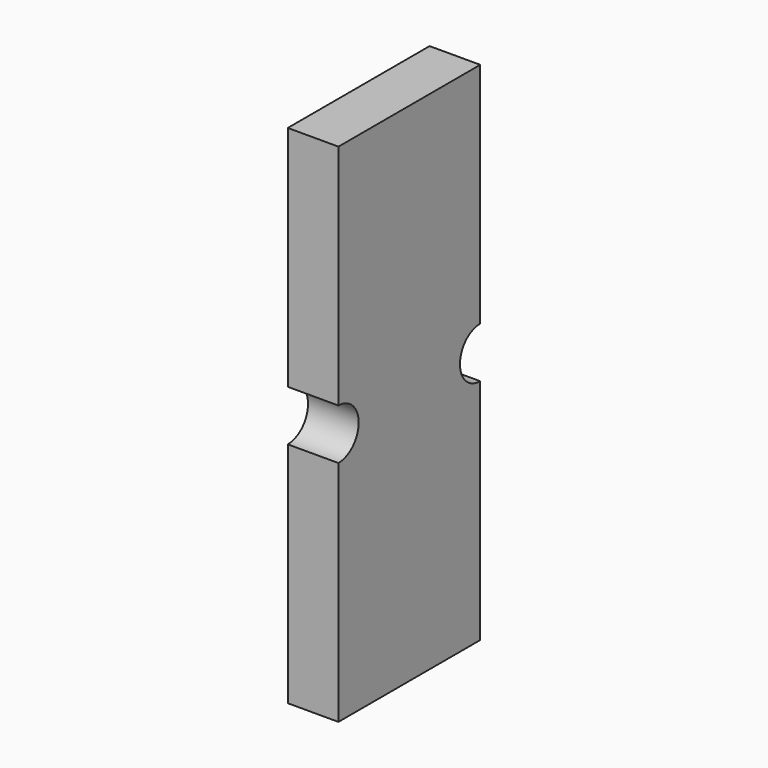
from build123d import *

# Parameters (mm, degrees)
F0_W          = 35
F0_H          = 100
F1_DEPTH      = 5
F1_DEPTH_BACK = 5
F2_R          = 5
F3_DEPTH      = 25
F3_DEPTH_BACK = 25


with BuildPart() as f1:
    # F0 (on Right) → F1 (new body, two sides)
    with BuildSketch(Plane.YZ) as f1_sk:
        Rectangle(F0_W, F0_H)
    extrude(amount=F1_DEPTH)
    extrude(f1_sk.sketch, amount=-F1_DEPTH_BACK)

    # F2 (on Right) → F3 (cut, two sides)
    with BuildSketch(Plane.YZ) as f3_sk:
        with Locations((-17.5, 0)):
            Circle(F2_R)
        with Locations((17.5, 0)):
            Circle(F2_R)
    extrude(amount=-F3_DEPTH, mode=Mode.SUBTRACT)
    extrude(f3_sk.sketch, amount=F3_DEPTH_BACK, mode=Mode.SUBTRACT)


solid = f1.part
